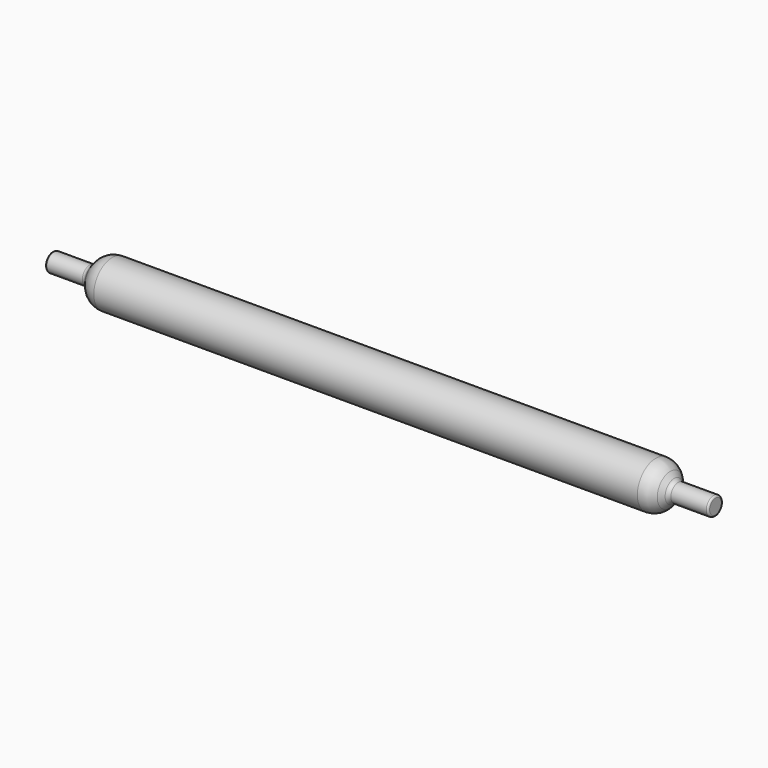
from build123d import *


with BuildPart() as f1:
    # F0 (on Front) → F1 (revolve)
    with BuildSketch(Plane.XZ):
        with BuildLine():
            Line((0, 8), (0, 0))
            Line((0, 0), (360, 0))
            Line((360, 0), (720, 0))
            Line((720, 0), (720, 8))
            ThreePointArc((720, 8), (719.414214, 9.414214), (718, 10))
            Line((718, 10), (679.542538, 10))
            ThreePointArc((679.542538, 10), (677.031904, 10.571547), (675.016079, 12.173546))
            Line((675.016079, 12.173546), (670.744676, 17.505015))
            ThreePointArc((670.744676, 17.505015), (663.793556, 23.029147), (655.136198, 25))
            Line((655.136198, 25), (360, 25))
            Line((360, 25), (64.863802, 25))
            ThreePointArc((64.863802, 25), (56.206444, 23.029147), (49.255324, 17.505015))
            Line((49.255324, 17.505015), (44.983921, 12.173546))
            ThreePointArc((44.983921, 12.173546), (42.968096, 10.571547), (40.457462, 10))
            Line((40.457462, 10), (2, 10))
            ThreePointArc((2, 10), (0.585786, 9.414214), (0, 8))
        make_face()
    revolve(axis=Axis((180, 0, 0), (1, 0, 0)))


solid = f1.part
